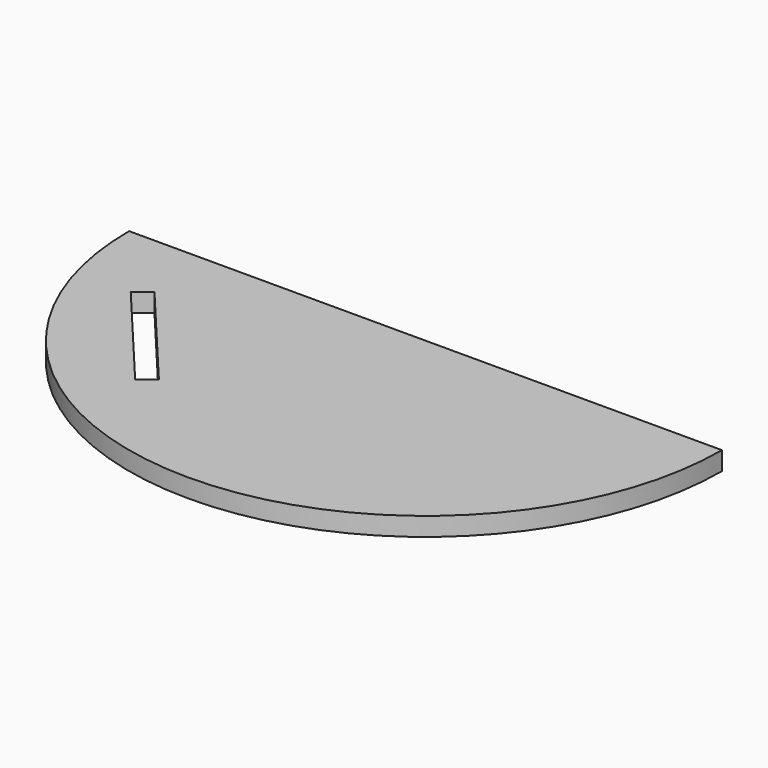
from build123d import *

# Parameters (mm, degrees)
F1_DEPTH = 19.05


with BuildPart() as f1:
    # F0 (on Top) → F1 (new body)
    with BuildSketch(Plane.XY):
        with BuildLine():
            Line((-249.206918, 0), (-304.8, 0))
            ThreePointArc((-304.8, 0), (0, -304.8), (304.8, 0))
            Line((304.8, 0), (241.3, 0))
            Line((241.3, 0), (-249.206918, 0))
        make_face()
        Polygon((-139.535693, -198.73236), (-237.496525, -81.987187), (-222.903378, -69.742083), (-124.942547, -186.487256), align=None, mode=Mode.SUBTRACT)
    extrude(amount=F1_DEPTH)


solid = f1.part
